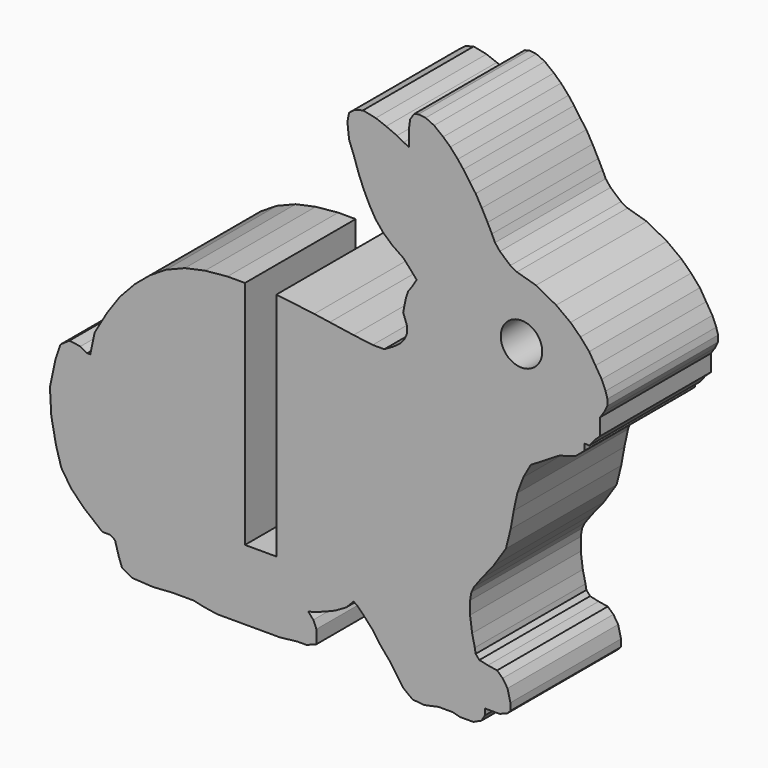
from build123d import *

# Parameters (mm, degrees)
F0_R     = 2.25
F1_DEPTH = 3
F2_DEPTH = 12
F3_DEPTH = 25
F4_DEPTH = 1.9
F5_R     = 1.0323234766
F6_DEPTH = 2


with BuildPart() as f1:
    # F0 (on Front) → F1 (new body)
    with BuildSketch(Plane.XZ):
        Polygon((59.1779698418, 31.194587481), (59.1779698418, 31.9005881237), (59.7388577371, 31.8816154154), (60.3070678192, 32.6076158289), (60.8939676434, 33.1560252645), (60.8939676434, 33.94444243), (60.8939676434, 34.9491785137), (61.3608548692, 35.6423513558), (61.6794760284, 36.3066197257), (61.6794760284, 36.964568034), (61.4824255283, 37.650985105), (61.0625805582, 38.6402383967), (60.3881708198, 39.7264862101), (59.7092475961, 40.8400280338), (58.7607938368, 41.9245535961), (57.6865458859, 42.9608735974), (56.131929641, 44.1080185295), (53.9428997059, 45.2900241974), (51.8717793367, 45.8880749855), (51.1641228177, 46.2767657275), (50.0276083315, 47.254787707), (49.500445814, 47.9175015095), (49.1623850594, 48.6403019596), (48.6890909202, 49.5821496811), (48.0721058512, 50.756745827), (47.4028453988, 51.9204250674), (46.7350661522, 52.8268286536), (46.0711401365, 53.7907023235), (45.4648239409, 54.5656838351), (44.6564314585, 55.4715389559), (43.8822848719, 56.1802155505), (42.8986280226, 56.9550049245), (41.9814228134, 57.3815747084), (41.2078828484, 57.4680692876), (40.7050007603, 57.323706376), (40.2931032973, 56.6803844909), (40.199734935, 55.9481483411), (40.199734935, 53.9804748212), (39.6002588357, 54.273896786), (38.8731125838, 54.6692215131), (37.691644901, 55.1789449292), (36.5735721249, 55.6012317928), (35.1899154237, 55.8898272879), (34.2816298321, 55.6290847487), (33.6731372422, 55.1684227791), (33.4962484397, 54.2325872158), (33.6837781683, 52.5928086281), (34.1659036474, 51.3379723538), (34.7663858487, 49.5873513683), (35.2569758596, 48.3876865141), (35.9067640461, 47.0506118809), (36.5332756434, 45.9664146991), (37.3798895218, 44.924222276), (38.3908508618, 44.0280229397), (39.5714766328, 43.2154907668), (40.3047049111, 42.4076781904), (41.0011964924, 41.6110026044), (40.6037128381, 40.9368513783), (40.0780839274, 40.1968563654), (39.8294614492, 39.436208314), (39.5429389686, 38.0218070561), (39.9435562115, 36.928816962), (39.9435562115, 36.0942029461), (39.6868255292, 35.5139231333), (39.2115087057, 34.9491785137), (38.4849423599, 34.4103130735), (37.4947947552, 33.8397134992), (36.2388370964, 33.8397134992), (34.1682477254, 34.1105470766), (31.5846720936, 34.4943121109), (29.9018896319, 34.7448454842), (25.7982475776, 35.2533147662), (22.9338105357, 35.2533147662), (20.4925913511, 35.2533147662), (18.0653283384, 35.0201785734), (15.8854493902, 34.5568092112), (13.8497609292, 33.7397600595), (12.1293465844, 32.6644815528), (10.4578391027, 31.2680783419), (8.8429108853, 29.5349174183), (7.4372964263, 27.5334818399), (6.0921336762, 25.2153127735), (5.626352988, 22.9853138756), (5.2811054162, 22.9853138756), (4.5523054715, 23.3941563518), (3.3652996425, 23.5582872219), (2.3869021215, 22.8734776027), (1.8580647324, 21.2996615779), (1.2503211514, 18.4274045382), (1.3953504937, 15.7512989625), (1.9034004358, 13.1371476651), (2.4727079067, 11.1539892033), (3.5306752582, 9.5370138477), (4.8935674994, 8.138209791), (6.9346738022, 6.4682455231), (7.7356851464, 6.4682455231), (8.3006708113, 6.139061086), (8.7042880198, 4.7330776356), (9.059931979, 3.7272284641), (10.1391117511, 3.1285394737), (12.4473123728, 2.994476163), (14.4526387363, 3.1366197305), (16.8182124996, 3.1366197305), (18.0060434283, 2.8763879966), (19.3903542013, 2.6614952628), (21.883129127, 2.6614952628), (23.7435637012, 2.6614952628), (26.1859881122, 2.6614952628), (28.06579015, 2.8763879966), (29.066299208, 2.8763879966), (30.1331987714, 3.287266694), (30.1331987714, 3.5115652152), (30.1331987714, 4.0722664313), (30.1331987714, 4.7332313456), (29.8045038484, 5.5102918726), (29.2580751761, 6.1180421129), (30.1753048391, 6.385948213), (31.1070111921, 6.7245609263), (32.1866285138, 7.1757989864), (33.3447322722, 7.8400621162), (34.1773899787, 8.6830629355), (34.5961799391, 8.3883274486), (35.2824532969, 7.6921380472), (36.3022424833, 6.5724259885), (37.0747716212, 5.4643229671), (38.0653628889, 4.2985577244), (38.7650963545, 3.287266694), (39.5393966511, 2.1927098055), (40.5617639739, 1.4101439923), (41.8474854837, 1.29517555), (43.3533756495, 1.6162313684), (44.9111674038, 1.6162313684), (45.7386897979, 1.4101439923), (47.1447348197, 1.4101439923), (48.0390547016, 1.8218246455), (48.391113549, 2.4300583955), (48.391113549, 3.1064440938), (49.9711618169, 3.1064440938), (50.7690600963, 3.3749897061), (51.1641228177, 3.7687113949), (51.1641228177, 4.5507251402), (50.8511063176, 5.8227389469), (50.331727117, 6.6105731496), (49.7232345272, 7.1669628431), (48.7272878623, 7.3274251963), (47.8059953638, 7.5314743863), (47.4058916521, 7.9913136579), (47.3091591362, 8.5442592861), (47.0176340929, 9.8221136372), (46.7949781293, 11.4877626708), (46.7949781293, 12.8848767905), (46.9349625513, 13.7100262861), (47.2396647362, 14.3331588828), (48.0156837904, 15.3890061712), (49.3168950791, 17.0124460815), (50.682930079, 19.1019749735), (51.1880177404, 21.1130785633), (51.5269728079, 22.9853138756), (51.9142522124, 24.7934957735), (52.5664263977, 26.5176664071), (53.3611806084, 27.9593477017), (56.4587800437, 29.8548648433), (58.2113468584, 30.3689550216), align=None)
        with Locations((52.3673893774, 39.17497812)):
            Circle(F0_R, mode=Mode.SUBTRACT)
    extrude(amount=F1_DEPTH)

    # F2 (add): a face of the model
    f2_faces = [f1.faces().sort_by_distance(p)[0] for p in [
        (31.8904414267, -3, 24.0565595855),
    ]]
    extrude(f2_faces, amount=F2_DEPTH)

    # F3 (cut): a face of the model
    f3_faces = [f1.faces().sort_by_distance(p)[0] for p in [
        (23.1454194643, -7.5, 35.2533147662),
    ]]
    extrude(f3_faces, amount=-F3_DEPTH, mode=Mode.SUBTRACT)

    # F4 (add): a face of the model
    f4_faces = [f1.faces().sort_by_distance(p)[0] for p in [
        (20.4925913511, -7.5, 22.7533147662),
    ]]
    extrude(f4_faces, amount=F4_DEPTH)

    # F5 (on face) → F6 (join)
    with BuildSketch(Plane.XZ.offset(15)):
        with Locations((41.8074317276, 54.3998554349)):
            Circle(F5_R)
    extrude(amount=-F6_DEPTH)


solid = f1.part
